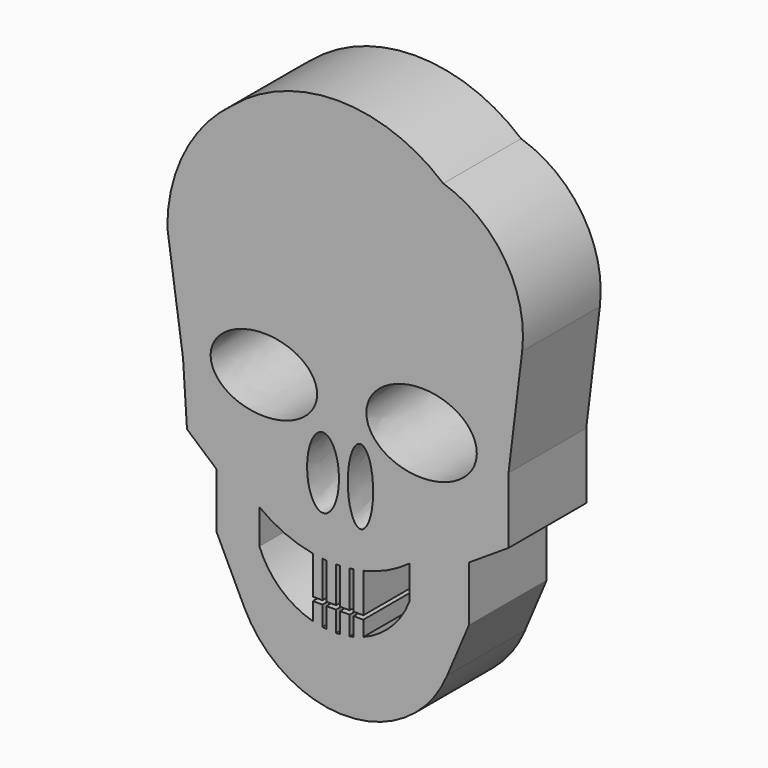
from build123d import *

# Parameters (mm, degrees)
F1_DEPTH = 15


with BuildPart() as f1:
    # F0 (on Front) → F1 (new body)
    with BuildSketch(Plane.XZ):
        with BuildLine():
            ThreePointArc((20.710429, 27.415348), (4.431425, 33.39766), (-11.84758, 27.415348))
            ThreePointArc((-11.84758, 27.415348), (-19.213576, 18.716958), (-21.888836, 7.637117))
            Line((-21.888836, 7.637117), (-19.454594, -9.402589))
            Line((-19.454594, -9.402589), (-18.846028, -18.835283))
            Line((-18.846028, -18.835283), (-14.281823, -22.790929))
            Line((-14.281823, -22.790929), (-14.281823, -31.310782))
            Line((-14.281823, -31.310782), (-10.021897, -40.134918))
            ThreePointArc((-10.021897, -40.134918), (5.943942, -49.820405), (21.31899, -39.222076))
            Line((21.31899, -39.222076), (24.666074, -31.310782))
            Line((24.666074, -31.310782), (24.666074, -22.790929))
            Line((24.666074, -22.790929), (30.777754, -18.835283))
            Line((30.777754, -18.835283), (30.777754, -8.641886))
            Line((30.777754, -8.641886), (32.881651, 8.549958))
            ThreePointArc((32.881651, 8.549958), (30.211147, 20.185948), (20.710429, 27.415348))
        make_face()
        with BuildLine():
            Line((-7.671921, -31.11458), (-7.671921, -25.776851))
            ThreePointArc((-7.671921, -25.776851), (-3.765788, -28.079677), (0.570211, -29.406328))
            ThreePointArc((0.570211, -29.406328), (1.318138, -29.526551), (2.070211, -29.617296))
            ThreePointArc((2.070211, -29.617296), (2.370012, -29.645142), (2.670211, -29.668303))
            ThreePointArc((2.670211, -29.668303), (3.419769, -29.705602), (4.170211, -29.713697))
            ThreePointArc((4.170211, -29.713697), (4.470267, -29.708756), (4.770211, -29.699144))
            ThreePointArc((4.770211, -29.699144), (5.521368, -29.65452), (6.270211, -29.580613))
            ThreePointArc((6.270211, -29.580613), (6.570527, -29.542648), (6.870211, -29.499973))
            ThreePointArc((6.870211, -29.499973), (7.623052, -29.371429), (8.370211, -29.213164))
            ThreePointArc((8.370211, -29.213164), (12.090787, -27.935602), (15.474535, -25.929335))
            Line((15.474535, -25.929335), (15.474535, -31.11458))
            ThreePointArc((15.474535, -31.11458), (12.673712, -35.41805), (8.370211, -38.218827))
            ThreePointArc((8.370211, -38.218827), (7.627703, -38.4788), (6.870211, -38.69119))
            ThreePointArc((6.870211, -38.69119), (6.571029, -38.761012), (6.270211, -38.823404))
            ThreePointArc((6.270211, -38.823404), (5.523229, -38.945192), (4.770211, -39.021205))
            ThreePointArc((4.770211, -39.021205), (4.470378, -39.038612), (4.170211, -39.048756))
            ThreePointArc((4.170211, -39.048756), (3.419328, -39.042305), (2.670211, -38.990437))
            ThreePointArc((2.670211, -38.990437), (2.369756, -38.956772), (2.070211, -38.915795))
            ThreePointArc((2.070211, -38.915795), (1.315266, -38.779149), (0.570211, -38.596099))
            ThreePointArc((0.570211, -38.596099), (-4.437038, -35.831617), (-7.671921, -31.11458))
        make_face(mode=Mode.SUBTRACT)
        with BuildLine():
            add(Edge.make_bspline(
                [(2.149325, -12.445394), (-2.110601, -12.445394), (0.019362, -20.660969), (2.149325, -28.876544), (4.279288, -20.660969), (6.409251, -12.445394), (2.149325, -12.445394)],
                knots=[0, 0, 0, 2.094395, 2.094395, 4.18879, 4.18879, 6.283185, 6.283185, 6.283185], degree=2, weights=[1, 0.5, 1, 0.5, 1, 0.5, 1]))
        make_face(mode=Mode.SUBTRACT)
        with BuildLine():
            add(Edge.make_bspline(
                [(7.930652, -12.141115), (4.53183, -12.141115), (6.231241, -20.813109), (7.930652, -29.485103), (9.630063, -20.813109), (11.329474, -12.141115), (7.930652, -12.141115)],
                knots=[0, 0, 0, 2.094395, 2.094395, 4.18879, 4.18879, 6.283185, 6.283185, 6.283185], degree=2, weights=[1, 0.5, 1, 0.5, 1, 0.5, 1]))
        make_face(mode=Mode.SUBTRACT)
        with BuildLine():
            add(Edge.make_bspline(
                [(-15.194664, -7.576907), (-15.194664, -17.344323), (-2.871308, -12.460615), (9.452049, -7.576907), (-2.871308, -2.693199), (-15.194664, 2.190509), (-15.194664, -7.576907)],
                knots=[0, 0, 0, 2.094395, 2.094395, 4.18879, 4.18879, 6.283185, 6.283185, 6.283185], degree=2, weights=[1, 0.5, 1, 0.5, 1, 0.5, 1]))
        make_face(mode=Mode.SUBTRACT)
        with BuildLine():
            add(Edge.make_bspline(
                [(8.843494, -7.576907), (8.843494, -18.119688), (21.623271, -12.848297), (34.403049, -7.576907), (21.623271, -2.305516), (8.843494, 2.965875), (8.843494, -7.576907)],
                knots=[0, 0, 0, 2.094395, 2.094395, 4.18879, 4.18879, 6.283185, 6.283185, 6.283185], degree=2, weights=[1, 0.5, 1, 0.5, 1, 0.5, 1]))
        make_face(mode=Mode.SUBTRACT)
        with BuildLine():
            ThreePointArc((2.070211, -29.617296), (1.318138, -29.526551), (0.570211, -29.406328))
            Line((0.570211, -29.406328), (0.570211, -35.272898))
            Line((0.570211, -35.272898), (2.070211, -35.272898))
            Line((2.070211, -35.272898), (2.070211, -29.617296))
        make_face()
        with BuildLine():
            ThreePointArc((4.170211, -29.713697), (3.419769, -29.705602), (2.670211, -29.668303))
            Line((2.670211, -29.668303), (2.670211, -35.272898))
            Line((2.670211, -35.272898), (4.170211, -35.272898))
            Line((4.170211, -35.272898), (4.170211, -29.713697))
        make_face()
        with BuildLine():
            ThreePointArc((6.270211, -29.580613), (5.521368, -29.65452), (4.770211, -29.699144))
            Line((4.770211, -29.699144), (4.770211, -35.272898))
            Line((4.770211, -35.272898), (6.270211, -35.272898))
            Line((6.270211, -35.272898), (6.270211, -29.580613))
        make_face()
        with BuildLine():
            ThreePointArc((8.370211, -29.213164), (7.623052, -29.371429), (6.870211, -29.499973))
            Line((6.870211, -29.499973), (6.870211, -35.272898))
            Line((6.870211, -35.272898), (8.370211, -35.272898))
            Line((8.370211, -35.272898), (8.370211, -29.213164))
        make_face()
        with BuildLine():
            Line((6.870211, -35.872898), (6.870211, -38.69119))
            ThreePointArc((6.870211, -38.69119), (7.627703, -38.4788), (8.370211, -38.218827))
            Line((8.370211, -38.218827), (8.370211, -35.872898))
            Line((8.370211, -35.872898), (6.870211, -35.872898))
        make_face()
        with BuildLine():
            Line((4.770211, -35.872898), (4.770211, -39.021205))
            ThreePointArc((4.770211, -39.021205), (5.523229, -38.945192), (6.270211, -38.823404))
            Line((6.270211, -38.823404), (6.270211, -35.872898))
            Line((6.270211, -35.872898), (4.770211, -35.872898))
        make_face()
        with BuildLine():
            Line((2.670211, -35.872898), (2.670211, -38.990437))
            ThreePointArc((2.670211, -38.990437), (3.419328, -39.042305), (4.170211, -39.048756))
            Line((4.170211, -39.048756), (4.170211, -35.872898))
            Line((4.170211, -35.872898), (2.670211, -35.872898))
        make_face()
        with BuildLine():
            Line((0.570211, -35.872898), (0.570211, -38.596099))
            ThreePointArc((0.570211, -38.596099), (1.315266, -38.779149), (2.070211, -38.915795))
            Line((2.070211, -38.915795), (2.070211, -35.872898))
            Line((2.070211, -35.872898), (0.570211, -35.872898))
        make_face()
    extrude(amount=F1_DEPTH)


solid = f1.part
